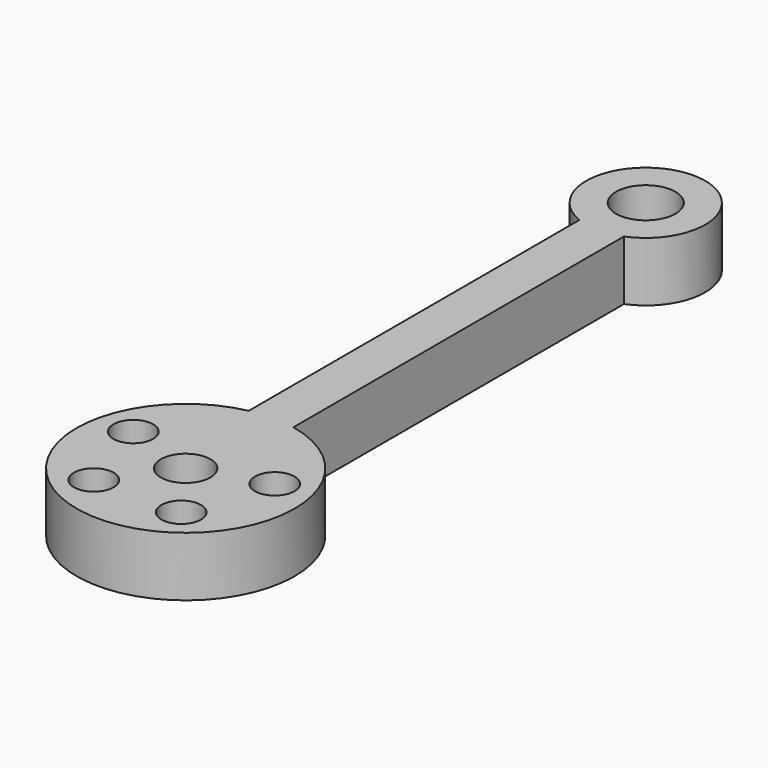
from build123d import *

# Parameters (mm, degrees)
F0_R     = 2
F0_R_2   = 3
F1_DEPTH = 6
F2_R     = 2.5
F3_DEPTH = 8.1


with BuildPart() as f1:
    # F0 (on Top) → F1 (new body)
    with BuildSketch(Plane.XY):
        with BuildLine():
            Line((-2.25, 52.437851), (-2.25, 10.767428))
            ThreePointArc((-2.25, 10.767428), (0, -11), (2.25, 10.767428))
            Line((2.25, 10.767428), (2.25, 52.437851))
            ThreePointArc((2.25, 52.437851), (0, 64), (-2.25, 52.437851))
        make_face()
        with Locations((-7.132924, 2.317627)):
            Circle(F0_R, mode=Mode.SUBTRACT)
        with Locations((-4.408389, -6.067627)):
            Circle(F0_R, mode=Mode.SUBTRACT)
        with Locations((4.408389, -6.067627)):
            Circle(F0_R, mode=Mode.SUBTRACT)
        with Locations((7.132924, 2.317627)):
            Circle(F0_R, mode=Mode.SUBTRACT)
        with Locations((0, 58)):
            Circle(F0_R_2, mode=Mode.SUBTRACT)
    extrude(amount=F1_DEPTH)

    # F2 (on face) → F3 (cut)
    with BuildSketch(Plane.XY.offset(6)):
        Circle(F2_R)
    extrude(amount=-F3_DEPTH, mode=Mode.SUBTRACT)


solid = f1.part
